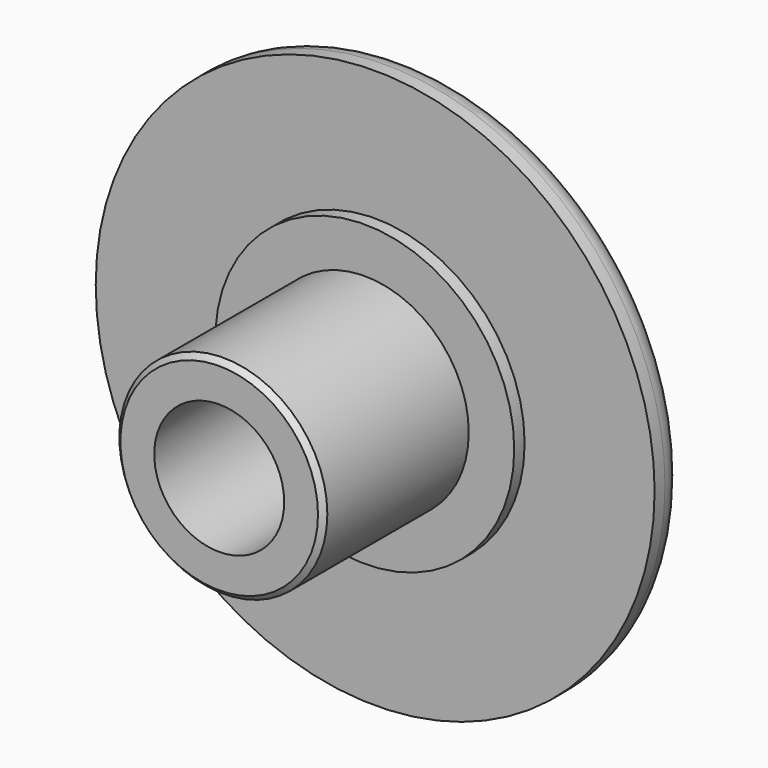
from build123d import *

# Parameters (mm, degrees)
F2_SIZE = 0.2
F3_R    = 1


with BuildPart() as f1:
    # F0 (on Top) → F1 (revolve)
    with BuildSketch(Plane.XY):
        Polygon((2.5, 6), (2.5, 0), (4, 0), (4, 7), (5.75, 7), (5.75, 7.5), (10.75, 7.5), (10.75, 9), (0, 9), (0, 6), align=None)
    revolve(axis=Axis((0, 5.832618, 0), (0, -1, 0)))

    # F2
    f2_edges = [f1.edges().sort_by_distance(p)[0] for p in [
        (-4, 0, 0),
    ]]
    chamfer(f2_edges, length=F2_SIZE)

    # F3
    f3_edges = [f1.edges().sort_by_distance(p)[0] for p in [
        (-10.75, 9, 0),
    ]]
    fillet(f3_edges, radius=F3_R)


solid = f1.part
